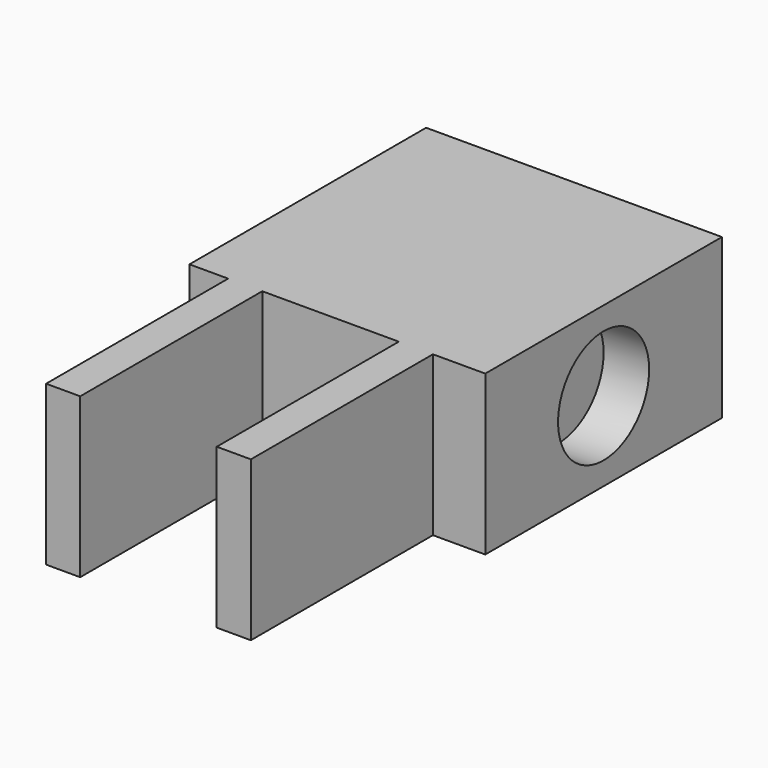
from build123d import *

# Parameters (mm, degrees)
F0_W     = 1.5
F0_H     = 10
F1_DEPTH = 7
F2_R     = 2.5
F3_DEPTH = 2


with BuildPart() as f1:
    # F0 (on Top) → F1 (new body)
    with BuildSketch(Plane.XY):
        Polygon((13, 0), (0, 0), (0, -13), (1.7, -13), (3.2, -13), (9.2, -13), (10.7, -13), (13, -13), align=None)
        with Locations((2.45, -18)):
            Rectangle(F0_W, F0_H)
        with Locations((9.95, -18)):
            Rectangle(F0_W, F0_H)
    extrude(amount=F1_DEPTH)

    # F2 (on face) → F3 (cut)
    with BuildSketch(Plane.YZ.offset(13)):
        with Locations((-6.5, 3.5)):
            Circle(F2_R)
    extrude(amount=-F3_DEPTH, mode=Mode.SUBTRACT)


solid = f1.part
